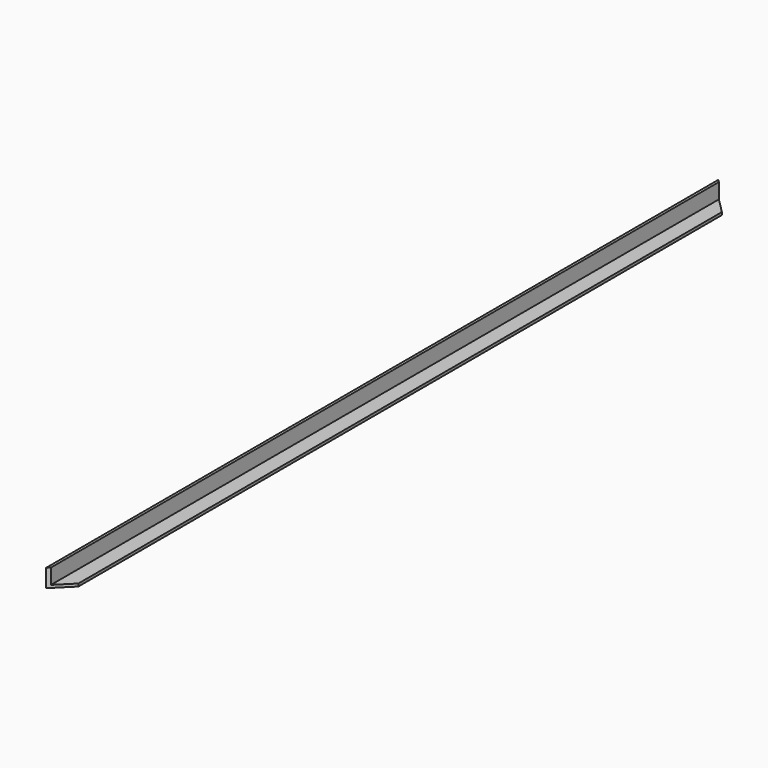
from build123d import *

# Parameters (mm, degrees)
F1_DEPTH = 15
F3_DEPTH = 85


with BuildPart() as f1:
    # F0 (on Top) → F1 (new body)
    with BuildSketch(Plane.XY):
        Polygon((-100, -2240.5), (0, -2340.5), (0, 2340.5), (-100, 2240.5), align=None)
    extrude(amount=F1_DEPTH)

    # F2 (on face) → F3 (join)
    with BuildSketch(Plane.XY.offset(15)):
        Polygon((-15, -2325.5), (0, -2340.5), (0, 2340.5), (-15, 2325.5), align=None)
    extrude(amount=F3_DEPTH)


with BuildPart() as f4_1:
    # F4: instance of F1
    add(f1.part.mirror(Plane(origin=(0, 0, 50), x_dir=(0, 1, 0), z_dir=(1, 0, 0))))


solid = f4_1.part
